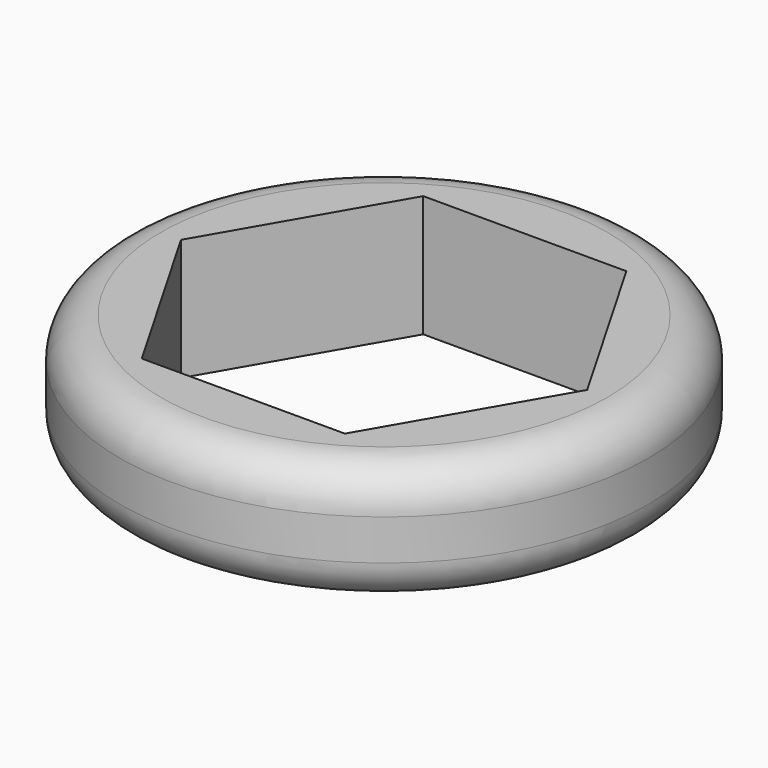
from build123d import *

# Parameters (mm, degrees)
F0_R     = 13.017027
F1_DEPTH = 6
F2_R     = 2


with BuildPart() as f1:
    # F0 (on Top) → F1 (new body)
    with BuildSketch(Plane.XY):
        Circle(F0_R)
        Polygon((-10.017027, 0), (-5.008514, 8.675), (5.008514, 8.675), (10.017027, 0), (5.008514, -8.675), (-5.008514, -8.675), align=None, mode=Mode.SUBTRACT)
    extrude(amount=F1_DEPTH)

    # F2
    f2_edges = [f1.edges().sort_by_distance(p)[0] for p in [
        (-13.017027, 0, 6),
        (-13.017027, 0, 0),
    ]]
    fillet(f2_edges, radius=F2_R)


solid = f1.part
